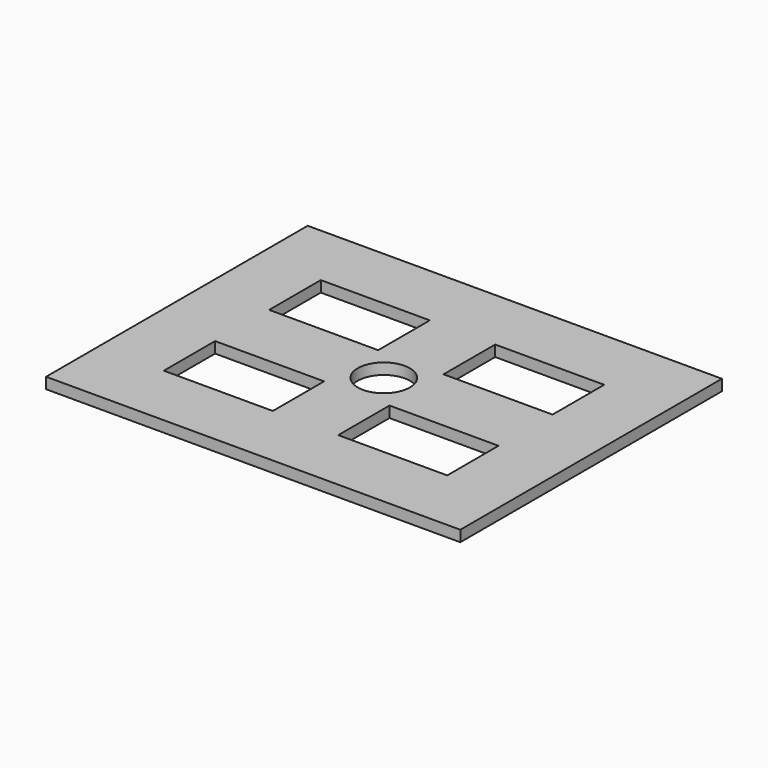
from build123d import *

# Parameters (mm, degrees)
F0_W      = 482.6
F0_H      = 482.6
F1_DEPTH  = 12.8524
F2_W      = 330.2
F2_H      = 12.8524
F2_W_2    = 76.2
F3_DEPTH  = 50.8
F4_W      = 330.2
F4_H      = 12.8524
F4_W_2    = 76.2
F5_DEPTH  = 50.8
F8_W      = 127
F8_H      = 74.6771698952
F8_H_2    = 75.1828301048
F9_W      = 127
F9_H      = 74.6771698952
F10_DEPTH = 25.4
F12_DEPTH = 50.8
F13_DEPTH = 50.8
F14_R     = 30.353
F15_DEPTH = 25.4


with BuildPart() as f1:
    # F0 (on Top) → F1 (new body)
    with BuildSketch(Plane.XY):
        with Locations((-241.3, -241.3)):
            Rectangle(F0_W, F0_H)
    extrude(amount=F1_DEPTH)

    # F2 (on face) → F3 (cut)
    with BuildSketch(Plane.XZ.offset(482.6)):
        with Locations((-241.3, 6.4262)):
            Rectangle(F2_W, F2_H)
        with Locations((-444.5, 6.4262)):
            Rectangle(F2_W_2, F2_H)
    extrude(amount=-F3_DEPTH, mode=Mode.SUBTRACT)

    # F4 (on face) → F5 (cut)
    with BuildSketch(Plane(origin=(0, 0, 0), x_dir=(-1, 0, 0), z_dir=(0, 1, 0))):
        with Locations((241.3, 6.4262)):
            Rectangle(F4_W, F4_H)
        with Locations((38.1, 6.4262)):
            Rectangle(F4_W_2, F4_H)
    extrude(amount=-F5_DEPTH, mode=Mode.SUBTRACT)

    # F8 (on face) + F9 (on face) → F10 (cut)
    with BuildSketch(Plane.XY.offset(12.8524)):
        with Locations((-139.7, -318.2614150524)):
            Rectangle(F8_W, F8_H)
        with Locations((-342.9, -164.5914150524)):
            Rectangle(F8_W, F8_H_2)
        with Locations((-139.7, -164.5914150524)):
            Rectangle(F8_W, F8_H_2)
    with BuildSketch(Plane.XY.offset(12.8524)):
        with Locations((-342.9, -318.2614150524)):
            Rectangle(F9_W, F9_H)
    extrude(amount=-F10_DEPTH, mode=Mode.SUBTRACT)

    # F12 (cut): a face of the model
    f12_faces = [f1.faces().sort_by_distance(p)[0] for p in [
        (-38.1, -482.6, 6.4262),
    ]]
    extrude(f12_faces, amount=-F12_DEPTH, mode=Mode.SUBTRACT)

    # F13 (cut): a face of the model
    f13_faces = [f1.faces().sort_by_distance(p)[0] for p in [
        (-444.5, 0, 6.4262),
    ]]
    extrude(f13_faces, amount=-F13_DEPTH, mode=Mode.SUBTRACT)

    # F14 (on face) → F15 (cut)
    with BuildSketch(Plane.XY.offset(12.8524)):
        with Locations((-241.3, -241.5528301048)):
            Circle(F14_R)
    extrude(amount=-F15_DEPTH, mode=Mode.SUBTRACT)


solid = f1.part
